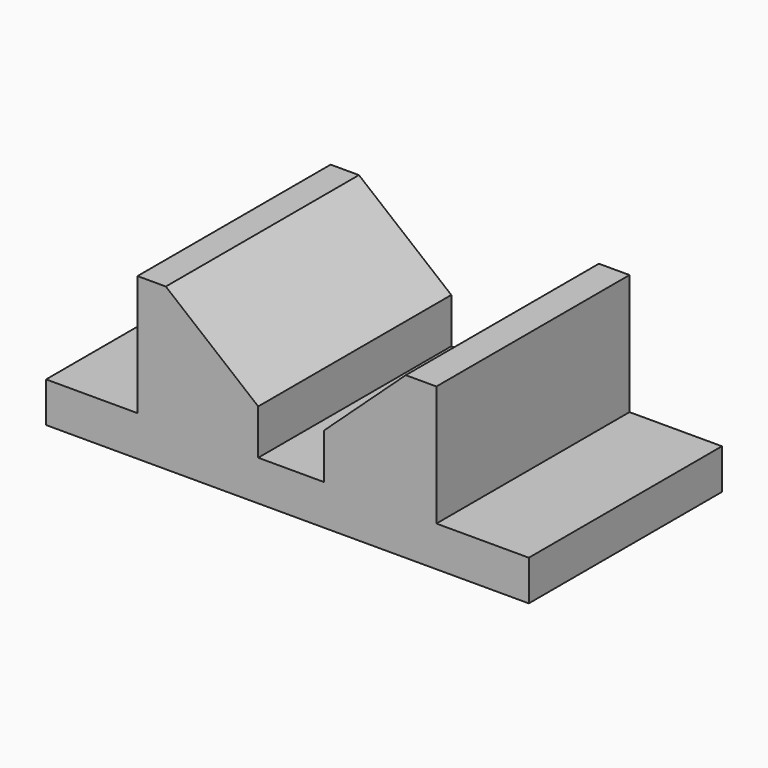
from build123d import *

# Parameters (mm, degrees)
F0_W     = 152.4
F0_H     = 76.2
F1_DEPTH = 12.7
F2_W     = 38.1
F2_H     = 38.1
F3_DEPTH = 76.2
F4_W     = 35.56
F4_H     = 38.1
F5_DEPTH = 76.2
F7_DEPTH = 76.2
F9_DEPTH = 76.2


with BuildPart() as f1:
    # F0 (on Top) → F1 (new body)
    with BuildSketch(Plane.XY):
        with Locations((182.255961, 32.827802)):
            Rectangle(F0_W, F0_H)
    extrude(amount=F1_DEPTH)

    # F2 (on face) → F3 (join)
    with BuildSketch(Plane.XZ.offset(5.272198)):
        with Locations((153.970076, 31.75)):
            Rectangle(F2_W, F2_H)
    extrude(amount=-F3_DEPTH)

    # F4 (on face) → F5 (join)
    with BuildSketch(Plane.XZ.offset(5.272198)):
        with Locations((211.501011, 31.75)):
            Rectangle(F4_W, F4_H)
    extrude(amount=-F5_DEPTH)

    # F6 (on face) → F7 (cut)
    with BuildSketch(Plane.XZ.offset(5.272198)):
        Polygon((173.020076, 50.8), (143.86259, 50.8), (173.020076, 26.959093), align=None)
    extrude(amount=-F7_DEPTH, mode=Mode.SUBTRACT)

    # F8 (on face) → F9 (cut)
    with BuildSketch(Plane.XZ.offset(5.272198)):
        Polygon((193.721011, 26.959093), (219.611079, 50.8), (193.721011, 50.8), align=None)
    extrude(amount=-F9_DEPTH, mode=Mode.SUBTRACT)


solid = f1.part
